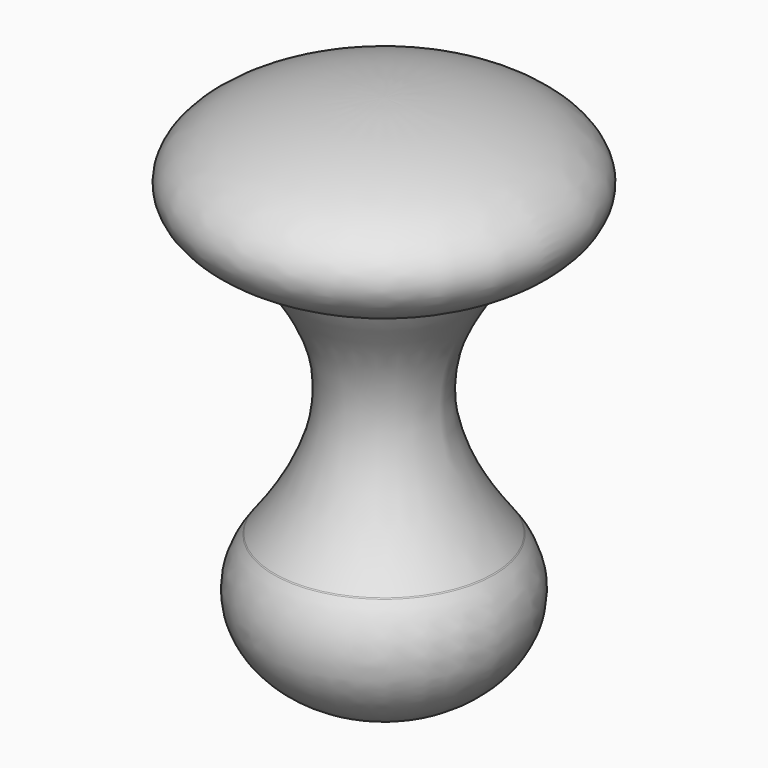
from build123d import *


with BuildPart() as f1:
    # F0 (on Front) → F1 (revolve)
    with BuildSketch(Plane.XZ):
        with BuildLine():
            Line((0, 6.038945), (0, 3.961055))
            add(Edge.make_bspline(
                [(0, 3.961055), (0.79753, 3.961055), (1.450229, 4.149726)],
                knots=[1.570796, 1.570796, 1.570796, 2.18297, 2.18297, 2.18297], degree=2, weights=[1, 0.95352, 1]))
            add(Edge.make_bspline(
                [(1.450229, 4.149726), (7.98589, 6.038945), (0, 6.038945)],
                knots=[2.18297, 2.18297, 2.18297, 4.712389, 4.712389, 4.712389], degree=2, weights=[1, 0.301329, 1]))
        make_face()
        with BuildLine():
            add(Edge.make_bspline(
                [(0, 3.961055), (0.79753, 3.961055), (1.450229, 4.149726)],
                knots=[1.570796, 1.570796, 1.570796, 2.18297, 2.18297, 2.18297], degree=2, weights=[1, 0.95352, 1]))
            Line((0, 3.961055), (0, 1.345403))
            add(Edge.make_bspline(
                [(1.539006, 0.674047), (1.025321, 1.345403), (0, 1.345403)],
                knots=[0.524754, 0.524754, 0.524754, 1.570796, 1.570796, 1.570796], degree=2, weights=[1, 0.866314, 1]))
            add(Edge.make_bspline(
                [(1.450229, 4.149726), (1.227867, 3.56307), (0, 2.653229), (1.539006, 0.674047)],
                knots=[0, 0, 0, 0, 3.476813, 3.476813, 3.476813, 3.476813], degree=3))
        make_face()
        with BuildLine():
            add(Edge.make_bspline(
                [(1.778278, 0), (1.778278, 0.361332), (1.539006, 0.674047)],
                knots=[0, 0, 0, 0.524754, 0.524754, 0.524754], degree=2, weights=[1, 0.965776, 1]))
            add(Edge.make_bspline(
                [(1.539006, 0.674047), (1.025321, 1.345403), (0, 1.345403)],
                knots=[0.524754, 0.524754, 0.524754, 1.570796, 1.570796, 1.570796], degree=2, weights=[1, 0.866314, 1]))
            Line((0, 1.345403), (0, -1.345403))
            add(Edge.make_bspline(
                [(0, -1.345403), (1.778278, -1.345403), (1.778278, 0)],
                knots=[4.712389, 4.712389, 4.712389, 6.283185, 6.283185, 6.283185], degree=2, weights=[1, 0.707107, 1]))
        make_face()
    revolve(axis=Axis((0, 0, 2.653229), (0, 0, -1)))


solid = f1.part
